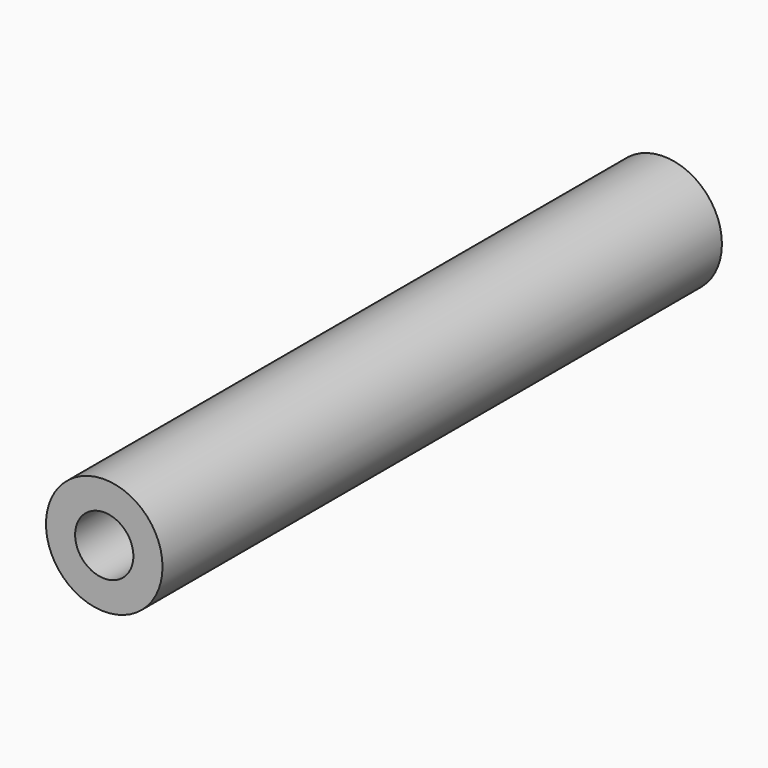
from build123d import *

# Parameters (mm, degrees)
F0_R     = 6.35
F1_DEPTH = 76.2
F3_D     = 6.35


with BuildPart() as f1:
    # F0 (on Front) → F1 (new body)
    with BuildSketch(Plane.XZ):
        Circle(F0_R)
    extrude(amount=-F1_DEPTH)

    # F3 (through all)
    with Locations(Plane.XZ):
        with Locations((0, 0)):
            Hole(F3_D / 2)


solid = f1.part
